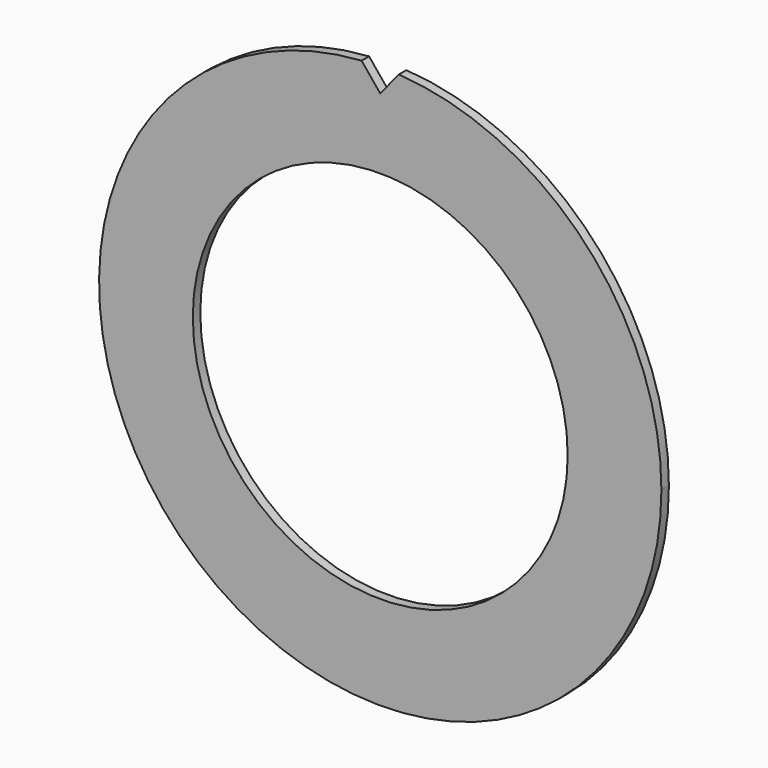
from build123d import *

# Parameters (mm, degrees)
F0_R     = 76.2
F0_R_2   = 50.8
F1_DEPTH = 2.54
F3_DEPTH = 25.4


with BuildPart() as f1:
    # F0 (on Front) → F1 (new body)
    with BuildSketch(Plane.XZ):
        Circle(F0_R)
        Circle(F0_R_2, mode=Mode.SUBTRACT)
    extrude(amount=F1_DEPTH)

    # F2 (on face) → F3 (cut)
    with BuildSketch(Plane.XZ.offset(2.54)):
        Polygon((-6.221704, 77.47), (0, 69.85), (6.221704, 77.47), align=None)
    extrude(amount=-F3_DEPTH, mode=Mode.SUBTRACT)


solid = f1.part
